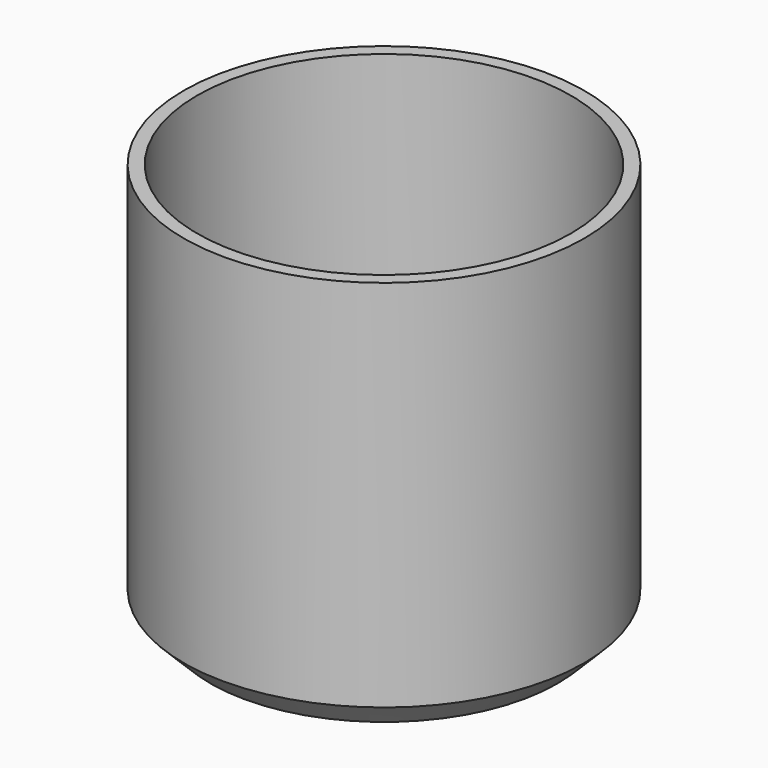
from build123d import *

# Parameters (mm, degrees)
F0_R     = 38.1
F1_DEPTH = 76.2
F2_R     = 35.56
F3_DEPTH = 71.12
F4_SIZE  = 5.08


with BuildPart() as f1:
    # F0 (on Top) → F1 (new body)
    with BuildSketch(Plane.XY):
        Circle(F0_R)
    extrude(amount=F1_DEPTH)

    # F2 (on face) → F3 (cut)
    with BuildSketch(Plane.XY.offset(76.2)):
        Circle(F2_R)
    extrude(amount=-F3_DEPTH, mode=Mode.SUBTRACT)

    # F4
    f4_edges = [f1.edges().sort_by_distance(p)[0] for p in [
        (-38.1, 0, 0),
    ]]
    chamfer(f4_edges, length=F4_SIZE)


solid = f1.part
